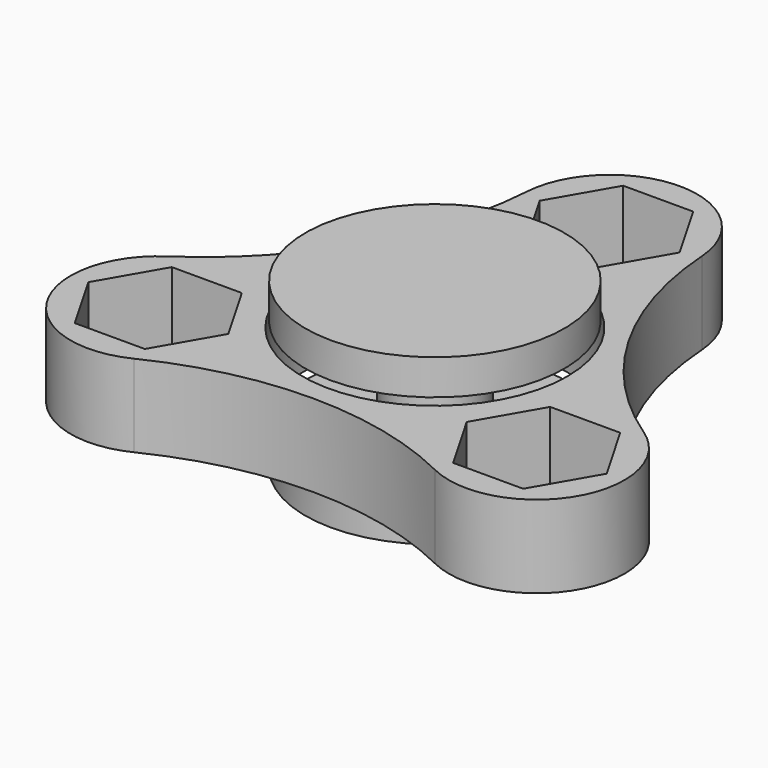
from build123d import *

# Parameters (mm, degrees)
F0_R     = 11.25
F1_DEPTH = 7


with BuildPart() as f1:
    # F0 (on Top) → F1 (new body)
    with BuildSketch(Plane.XY):
        with BuildLine():
            ThreePointArc((20.214697, -3.091565), (11.250074, 6.495233), (7.429975, 19.052224))
            ThreePointArc((7.429975, 19.052224), (0, 26), (-7.429975, 19.052224))
            ThreePointArc((-7.429975, 19.052224), (-11.250074, 6.495233), (-20.214697, -3.091565))
            ThreePointArc((-20.214697, -3.091565), (-22.51666, -13), (-12.784723, -15.960659))
            ThreePointArc((-12.784723, -15.960659), (0, -12.990466), (12.784723, -15.960659))
            ThreePointArc((12.784723, -15.960659), (22.51666, -13), (20.214697, -3.091565))
        make_face()
        Polygon((-13.094269, -14.426646), (-19.040976, -14.426646), (-22.01433, -9.276646), (-19.040976, -4.126646), (-13.094269, -4.126646), (-10.120915, -9.276646), align=None, mode=Mode.SUBTRACT)
        Polygon((19.040976, -4.126646), (22.01433, -9.276646), (19.040976, -14.426646), (13.094269, -14.426646), (10.120915, -9.276646), (13.094269, -4.126646), align=None, mode=Mode.SUBTRACT)
        Circle(F0_R, mode=Mode.SUBTRACT)
        Polygon((2.973354, 23.703292), (5.946708, 18.553292), (2.973354, 13.403292), (-2.973354, 13.403292), (-5.946708, 18.553292), (-2.973354, 23.703292), align=None, mode=Mode.SUBTRACT)
    extrude(amount=F1_DEPTH)


with BuildPart() as f3:
    # F2 (on Right) → F3 (revolve)
    with BuildSketch(Plane.YZ):
        Polygon((-3.85, 7.5), (-3.85, 7), (-3.85, 0), (-3.95, 0), (-4.85, 0), (-4.85, -0.5), (-11, -0.5), (-11, -3.5), (0, -3.5), (0, 9.5), (-3.85, 9.5), align=None)
    revolve(axis=Axis((0, 0, 3.649642), (0, 0, -1)))


with BuildPart() as f4:
    # F2 (on Right) → F4 (revolve)
    with BuildSketch(Plane.YZ):
        Polygon((-4, 9.5), (-3.85, 9.5), (0, 9.5), (0, 10.5), (-11, 10.5), (-11, 7.5), (-4, 7.5), align=None)
    revolve(axis=Axis((0, 0, 3.649642), (0, 0, -1)))


solid = Compound([f1.part, f3.part, f4.part])
